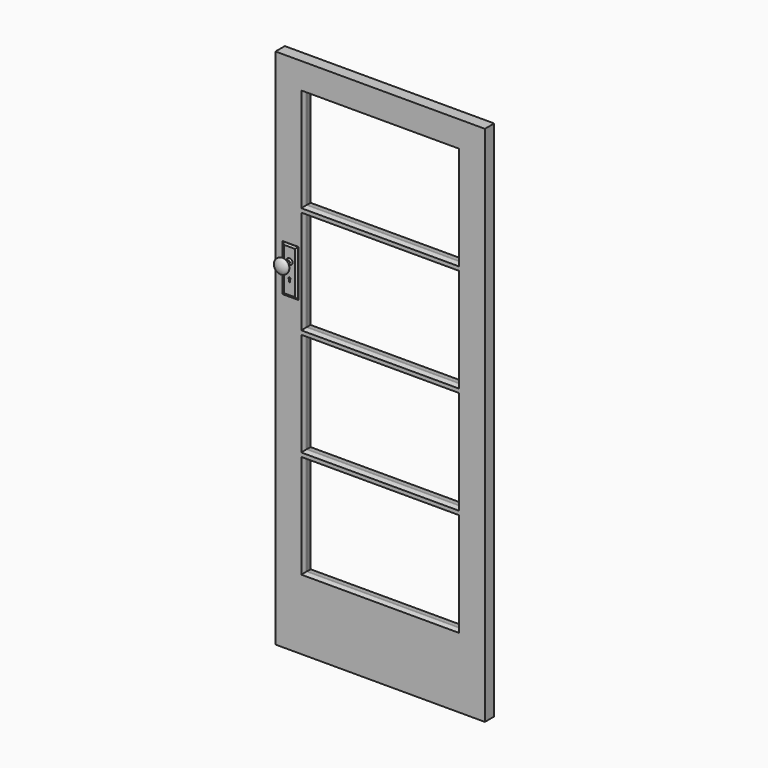
from build123d import *

# Parameters (mm, degrees)
F0_W     = 808
F0_H     = 2015
F0_W_2   = 598
F0_H_2   = 390
F1_DEPTH = 45
F2_SIZE2 = 5
F2_SIZE  = 17
F3_SIZE2 = 25
F3_SIZE  = 5
F4_W     = 60
F4_H     = 180
F5_DEPTH = 5
F9_SIZE2 = 4
F9_SIZE  = 8


with BuildPart() as f1:
    # F0 (on Front) → F1 (new body)
    with BuildSketch(Plane.XZ):
        with Locations((-404, 1007.5)):
            Rectangle(F0_W, F0_H)
        with Locations((-404, 470)):
            Rectangle(F0_W_2, F0_H_2, mode=Mode.SUBTRACT)
        with Locations((-404, 885)):
            Rectangle(F0_W_2, F0_H_2, mode=Mode.SUBTRACT)
        with Locations((-404, 1300)):
            Rectangle(F0_W_2, F0_H_2, mode=Mode.SUBTRACT)
        with Locations((-404, 1715)):
            Rectangle(F0_W_2, F0_H_2, mode=Mode.SUBTRACT)
    extrude(amount=F1_DEPTH)

    # F2
    f2_edges = [f1.edges().sort_by_distance(p)[0] for p in [
        (-404, -45, 275),
        (-105, -45, 470),
        (-703, -45, 470),
        (-404, -45, 665),
        (-703, -45, 885),
        (-404, -45, 1080),
        (-404, -45, 690),
        (-105, -45, 885),
        (-404, -45, 1105),
        (-105, -45, 1300),
        (-404, -45, 1495),
        (-703, -45, 1300),
        (-703, -45, 1715),
        (-404, -45, 1910),
        (-105, -45, 1715),
        (-404, -45, 1520),
    ]]
    chamfer(f2_edges, length=F2_SIZE, length2=F2_SIZE2)

    # F3
    f3_edges = [f1.edges().sort_by_distance(p)[0] for p in [
        (-404, 0, 1520),
        (-105, 0, 1715),
        (-703, 0, 1715),
        (-404, 0, 1910),
        (-105, 0, 1300),
        (-404, 0, 1105),
        (-404, 0, 1495),
        (-703, 0, 1300),
        (-404, 0, 1080),
        (-703, 0, 885),
        (-105, 0, 885),
        (-404, 0, 690),
        (-404, 0, 275),
        (-105, 0, 470),
        (-404, 0, 665),
        (-703, 0, 470),
    ]]
    f3_side = f1.faces().sort_by_distance((-404, 0, 21.70965))[0]
    chamfer(f3_edges, length=F3_SIZE, length2=F3_SIZE2, reference=f3_side)


with BuildPart() as f5:
    # F4 (on face) → F5 (new body)
    with BuildSketch(Plane.XZ.offset(45)):
        with Locations((-750, 1290)):
            Rectangle(F4_W, F4_H)
        with BuildLine():
            ThreePointArc((-752, 1261.5358983849), (-750, 1269), (-748, 1261.5358983849))
            Line((-748, 1261.5358983849), (-747.5, 1252))
            Line((-747.5, 1252), (-752.5, 1252))
            Line((-752.5, 1252), (-752, 1261.5358983849))
        make_face(mode=Mode.SUBTRACT)
    extrude(amount=F5_DEPTH)

    # F7 (on offset) → F8 (revolve)
    with BuildSketch(Plane(origin=(-750, 0, 0), x_dir=(0, -1, 0), z_dir=(-1, 0, 0))):
        with BuildLine():
            Line((88, 1322), (102, 1322))
            add(Edge.make_bspline(
                [(102, 1322), (102, 1346.2112931563), (90.0211741501, 1349.7066674326), (78.0423483002, 1353.2020417089), (74.583592135, 1330)],
                knots=[1.5707963268, 1.5707963268, 1.5707963268, 2.9967168029, 2.9967168029, 4.4226372789, 4.4226372789, 4.4226372789], degree=2, weights=[1, 0.7564289729, 1, 0.7564289729, 1]))
            Line((74.583592135, 1330), (57.5, 1330))
            Line((57.5, 1330), (49.5, 1334))
            Line((49.5, 1334), (49.5, 1330))
            Line((49.5, 1330), (49.5, 1322))
            Line((49.5, 1322), (88, 1322))
        make_face()
    revolve(axis=Axis((-750, -68.75, 1322), (0, 1, 0)))

    # F9
    f9_edges = [f5.edges().sort_by_distance(p)[0] for p in [
        (-780, -50, 1290),
        (-750, -50, 1200),
        (-720, -50, 1290),
        (-750, -50, 1380),
    ]]
    f9_side = f5.faces().sort_by_distance((-750, -50, 1288.906922))[0]
    chamfer(f9_edges, length=F9_SIZE, length2=F9_SIZE2, reference=f9_side)


solid = Compound([f1.part, f5.part])
